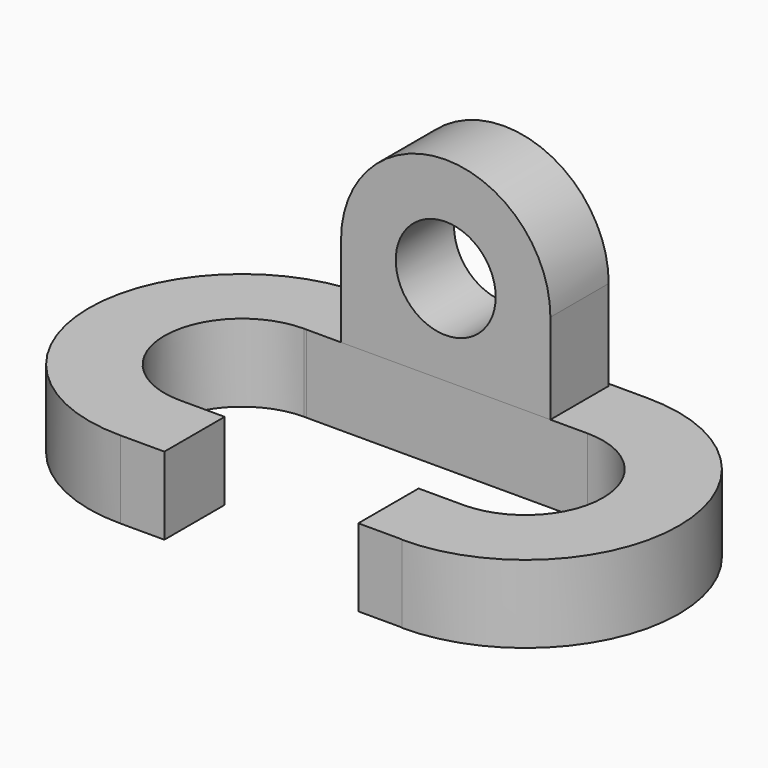
from build123d import *

# Parameters (mm, degrees)
F1_DEPTH = 12.7
F2_R     = 8.183106
F3_DEPTH = 11.938


with BuildPart() as f1:
    # F0 (on Top) → F1 (new body)
    with BuildSketch(Plane.XY):
        with BuildLine():
            ThreePointArc((-23.2029, -12.7), (-35.9029, 0), (-23.2029, 12.7))
            Line((-23.2029, 12.7), (-23.2029, 25.040741))
            ThreePointArc((-23.2029, 25.040741), (-48.24355, -0.067309), (-23.068282, -25.040379))
            Line((-23.068282, -25.040379), (-15.875, -25.040379))
            Line((-15.875, -25.040379), (-15.875, -12.7))
            Line((-15.875, -12.7), (-23.2029, -12.7))
        make_face()
        with BuildLine():
            Line((-22.774086, 12.692759), (23.2029, 12.7))
            Line((23.2029, 12.7), (22.993142, 25.1211))
            Line((22.993142, 25.1211), (-23.2029, 25.204616))
            Line((-23.2029, 25.204616), (-23.2029, 25.040741))
            Line((-23.2029, 25.040741), (-23.2029, 12.7))
            ThreePointArc((-23.2029, 12.7), (-22.988463, 12.69819), (-22.774086, 12.692759))
        make_face()
        with BuildLine():
            ThreePointArc((23.2029, 12.7), (35.9029, 0), (23.2029, -12.7))
            Line((23.2029, -12.7), (15.875, -12.7))
            Line((15.875, -12.7), (15.875, -25.040379))
            Line((15.875, -25.040379), (23.068282, -25.040379))
            Line((23.068282, -25.040379), (23.067396, -25.12161))
            ThreePointArc((23.067396, -25.12161), (48.324848, 0.037128), (22.993142, 25.1211))
            Line((22.993142, 25.1211), (23.2029, 12.7))
        make_face()
    extrude(amount=F1_DEPTH)

    # F2 (on face) → F3 (join)
    with BuildSketch(Plane(origin=(-0.002, 12.696345, 0), x_dir=(1, 0.000158, 0), z_dir=(0.000158, -1, 0))):
        with BuildLine():
            Line((17.135601, 12.7), (17.135601, 27.470101))
            ThreePointArc((17.135601, 27.470101), (0, 44.605702), (-17.135601, 27.470101))
            Line((-17.135601, 27.470101), (-17.135601, 12.7))
            Line((-17.135601, 12.7), (17.135601, 12.7))
        make_face()
        with Locations((0, 27.470101)):
            Circle(F2_R, mode=Mode.SUBTRACT)
    extrude(amount=-F3_DEPTH)


solid = f1.part
